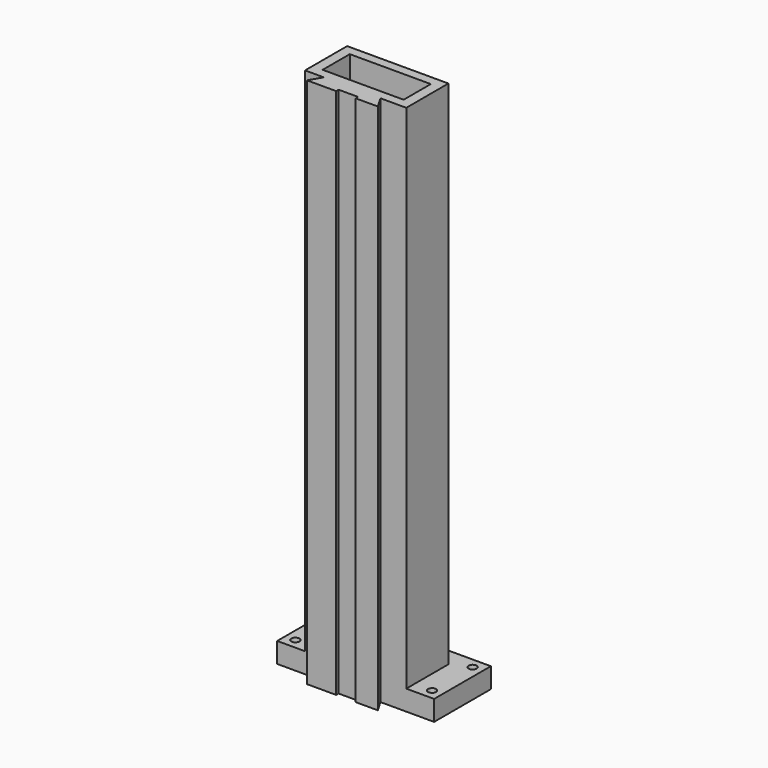
from build123d import *

# Parameters (mm, degrees)
SKETCH002_W  = 80
SKETCH002_H  = 33.5
PAD_DEPTH    = 505
SKETCH001_R  = 4
PAD001_DEPTH = 20


with BuildPart() as part:
    # Sketch002 → Pad (new body)
    with BuildSketch(Plane.XY):
        Polygon((-50, 0), (50, 0), (50, -52), (24.5, -52), (31.428203, -64), (9.65, -64), (9.65, -61), (-9.65, -61), (-9.65, -64), (-38.428203, -64), (-31.5, -52), (-50, -52), align=None)
        with Locations((0, -26)):
            Rectangle(SKETCH002_W, SKETCH002_H, mode=Mode.SUBTRACT)
    extrude(amount=PAD_DEPTH)

    # Sketch001 → Pad001 (new body)
    with BuildSketch(Plane(origin=(0, 0, 0), x_dir=(1, 0, 0), z_dir=(0, 0, -1))):
        Polygon((77.5, 52), (77.5, -18), (-77.5, -18), (-77.5, 52), (-31.5, 52), (-38.428203, 64), (-9.65, 64), (-9.65, 61), (9.65, 61), (9.65, 64), (31.428203, 64), (24.5, 52), align=None)
        with Locations((-67.5, 42)):
            Circle(SKETCH001_R, mode=Mode.SUBTRACT)
        with Locations((-67.5, -8)):
            Circle(SKETCH001_R, mode=Mode.SUBTRACT)
        with Locations((67.5, 42)):
            Circle(SKETCH001_R, mode=Mode.SUBTRACT)
        with Locations((67.5, -8)):
            Circle(SKETCH001_R, mode=Mode.SUBTRACT)
    extrude(amount=PAD001_DEPTH)


solid = part.part
